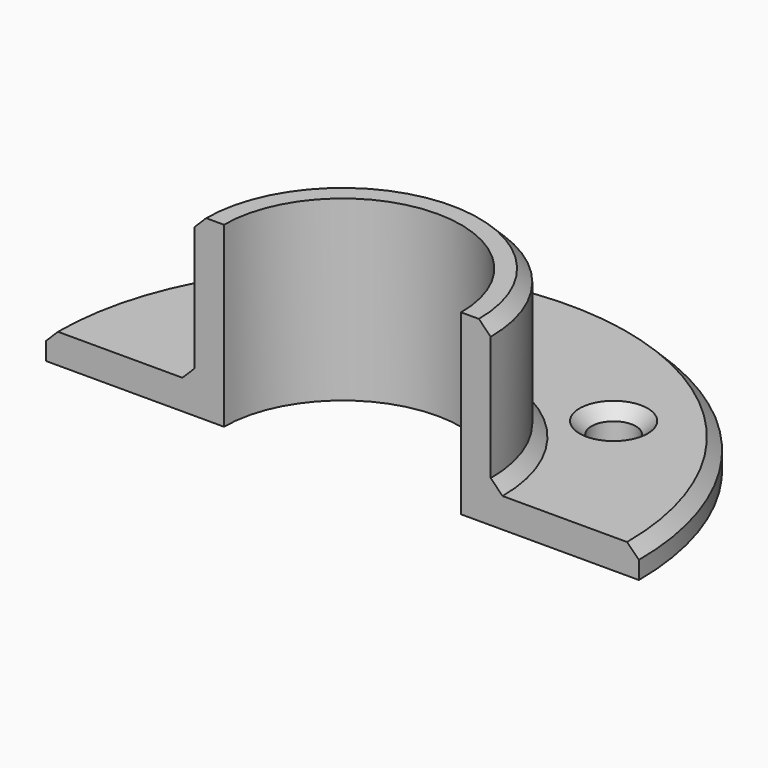
from build123d import *

# Parameters (mm, degrees)
F0_R     = 2.38125
F1_DEPTH = 3.175
F2_DEPTH = 19.05
F3_SIZE  = 1.27


with BuildPart() as f1:
    # F0 (on Top) → F1 (new body)
    with BuildSketch(Plane.XY):
        with BuildLine():
            Line((15.875, 0), (31.75, 0))
            ThreePointArc((31.75, 0), (0, 31.75), (-31.75, 0))
            Line((-31.75, 0), (-15.875, 0))
            ThreePointArc((-15.875, 0), (0, 15.875), (15.875, 0))
        make_face()
        with Locations((-15.9058814723, 16.4189687431)):
            Circle(F0_R, mode=Mode.SUBTRACT)
        with Locations((15.9058814723, 16.4189687431)):
            Circle(F0_R, mode=Mode.SUBTRACT)
    extrude(amount=F1_DEPTH)

    # F0 (on Top) → F2 (join)
    with BuildSketch(Plane.XY):
        with BuildLine():
            Line((12.7, 0), (15.875, 0))
            ThreePointArc((15.875, 0), (0, 15.875), (-15.875, 0))
            Line((-15.875, 0), (-12.7, 0))
            ThreePointArc((-12.7, 0), (0, 12.7), (12.7, 0))
        make_face()
    extrude(amount=F2_DEPTH)

    # F3
    f3_edges = [f1.edges().sort_by_distance(p)[0] for p in [
        (-18.287131, 16.418969, 3.175),
        (13.524631, 16.418969, 3.175),
        (0, 31.75, 3.175),
        (0, 15.875, 19.05),
        (0, 15.875, 3.175),
    ]]
    chamfer(f3_edges, length=F3_SIZE)


solid = f1.part
